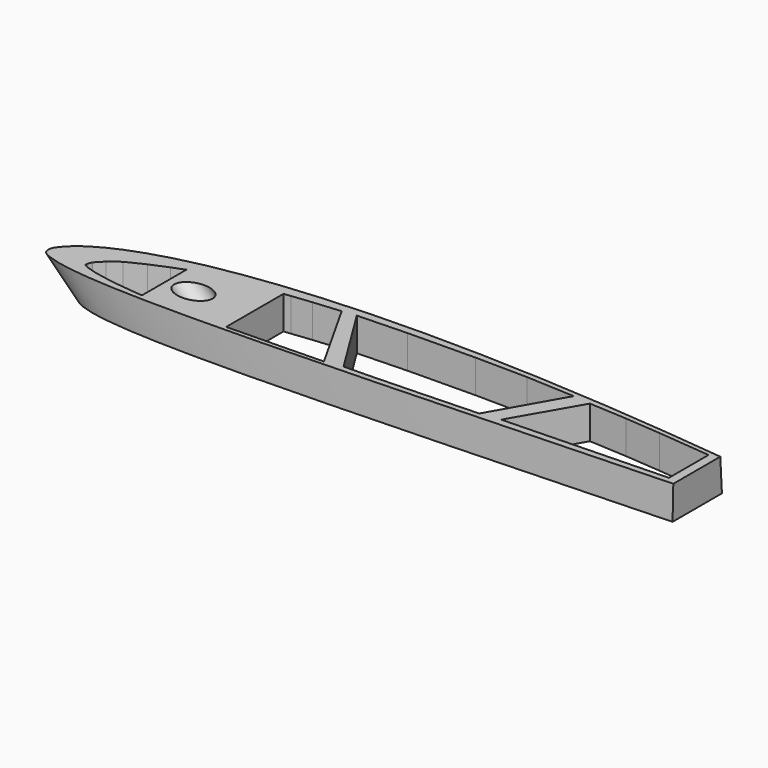
from build123d import *

# Parameters (mm, degrees)
SKETCH014_R     = 4.1
POCKET004_DEPTH = 1000
SKETCH028_W     = 1019.102966
SKETCH028_H     = 334.052749
POCKET014_DEPTH = 400
SKETCH029_W     = 596.497193
SKETCH029_H     = 131.569401
POCKET015_DEPTH = 190
POCKET021_DEPTH = 15
POCKET022_DEPTH = 15


with BuildPart() as part:
    # Sketch013 → AdditiveLoft004 section 0
    with BuildSketch(Plane.XY):
        with BuildLine():
            add(Edge.make_bspline(
                [(442, 0), (441.516482, 0.05985), (439.608661, 0.304392), (435.397729, 0.910974), (428.574856, 2.050787), (419.357172, 3.70148), (407.988015, 5.842425), (394.698211, 8.361511), (379.693029, 11.119858), (363.162801, 13.997331), (345.26298, 16.850624), (326.154422, 19.592319), (306.024603, 22.224467), (285.087437, 24.693135), (263.574681, 26.954707), (241.720258, 28.956147), (219.751231, 30.630726), (197.897907, 31.93252), (176.376671, 32.821617), (155.396014, 33.244603), (135.15065, 33.188213), (115.824376, 32.629564), (97.587476, 31.56887), (80.596225, 30.005784), (64.993081, 27.968424), (50.899514, 25.480303), (38.413049, 22.576942), (27.612464, 19.308312), (18.537399, 15.757674), (11.25959, 12.025676), (5.681209, 8.285847), (2.085717, 4.609671), (-0.247471, 1.339778), (0.311945, -2.351632), (4.312806, -4.086549), (9.630029, -5.736613), (17.536136, -6.998137), (27.548729, -7.995899), (39.778624, -8.638792), (54.057759, -8.977652), (70.277468, -9.020418), (88.270446, -8.806011), (107.851364, -8.369968), (128.803322, -7.757266), (150.891088, -7.009708), (173.8572, -6.171241), (197.434439, -5.258382), (221.347851, -4.314599), (245.320032, -3.359505), (269.074332, -2.428661), (292.331841, -1.542801), (314.820615, -0.740997), (336.263952, -0.054134), (356.390635, 0.471415), (374.915352, 0.819632), (391.616087, 0.995955), (406.124271, 0.998543), (418.5896, 0.838399), (427.79948, 0.669458), (436.147044, 0.281922), (438.208582, 0.287723), (442.482043, -0.059667), (442, 0)],
                knots=[0, 0, 0, 0, 1.461597, 5.77029, 12.762078, 22.212664, 33.86298, 47.468775, 62.792045, 79.632371, 97.804006, 117.167199, 137.543181, 158.706049, 180.412086, 202.435333, 224.541436, 246.507528, 268.108303, 289.156025, 309.457208, 328.838587, 347.151752, 364.251375, 380.016791, 394.345039, 407.169539, 418.451022, 428.175556, 436.348274, 442.987025, 448.138084, 451.892769, 454.490135, 458.080843, 463.78995, 471.700688, 481.805752, 494.068802, 508.3943, 524.664455, 542.72125, 562.377151, 583.420645, 605.603797, 628.678224, 652.364831, 676.388479, 700.474308, 724.338439, 747.706026, 770.297556, 791.846969, 812.070775, 830.691007, 847.452489, 862.104791, 874.428615, 884.234973, 891.369529, 895.711178, 897.168317, 897.168317, 897.168317, 897.168317], degree=3))
        make_face()
    # Sketch012 → AdditiveLoft004 section 1
    with BuildSketch(Plane(origin=(600, 0, -600), x_dir=(1, 0, 0), z_dir=(0, 0, 1))):
        with BuildLine():
            add(Edge.make_bspline(
                [(221, 0), (220.758241, 0.029925), (219.804331, 0.152196), (217.698864, 0.455487), (214.287428, 1.025393), (209.678586, 1.85074), (203.994008, 2.921212), (197.349106, 4.180756), (189.846514, 5.559929), (181.5814, 6.998665), (172.63149, 8.425312), (163.077211, 9.796159), (153.012301, 11.112233), (142.543719, 12.346568), (131.78734, 13.477353), (120.860129, 14.478073), (109.875616, 15.315363), (98.948954, 15.96626), (88.188336, 16.410808), (77.698007, 16.622301), (67.575325, 16.594107), (57.912188, 16.314782), (48.793738, 15.784435), (40.298113, 15.002892), (32.49654, 13.984212), (25.449757, 12.740151), (19.206525, 11.288471), (13.806232, 9.654156), (9.2687, 7.878837), (5.629795, 6.012838), (2.840604, 4.142924), (1.042858, 2.304836), (-0.123736, 0.669889), (0.155972, -1.175816), (2.156403, -2.043274), (4.815015, -2.868307), (8.768068, -3.499068), (13.774365, -3.997949), (19.889312, -4.319396), (27.028879, -4.488826), (35.138734, -4.510209), (44.135223, -4.403006), (53.925682, -4.184984), (64.401661, -3.878633), (75.445544, -3.504854), (86.9286, -3.08562), (98.71722, -2.629191), (110.673925, -2.157299), (122.660016, -1.679753), (134.537166, -1.21433), (146.165921, -0.771401), (157.410308, -0.370498), (168.131976, -0.027067), (178.195317, 0.235708), (187.457676, 0.409816), (195.808043, 0.497978), (203.062136, 0.499271), (209.2948, 0.4192), (213.89974, 0.334729), (218.073522, 0.140961), (219.104291, 0.143861), (221.241022, -0.029834), (221, 0)],
                knots=[0, 0, 0, 0, 0.730799, 2.885145, 6.381039, 11.106332, 16.93149, 23.734387, 31.396023, 39.816186, 48.902003, 58.583599, 68.77159, 79.353025, 90.206043, 101.217667, 112.270718, 123.253764, 134.054152, 144.578012, 154.728604, 164.419294, 173.575876, 182.125688, 190.008395, 197.172519, 203.58477, 209.225511, 214.087778, 218.174137, 221.493513, 224.069042, 225.946384, 227.245067, 229.040421, 231.894975, 235.850344, 240.902876, 247.034401, 254.19715, 262.332227, 271.360625, 281.188575, 291.710323, 302.801898, 314.339112, 326.182416, 338.19424, 350.237154, 362.16922, 373.853013, 385.148778, 395.923484, 406.035388, 415.345504, 423.726244, 431.052396, 437.214307, 442.117487, 445.684765, 447.855589, 448.584159, 448.584159, 448.584159, 448.584159], degree=3))
        make_face()
    loft()

    # Sketch014 (on DatumPlane) → Pocket004 (cut)
    with BuildSketch(Plane(origin=(0, 0, 0), x_dir=(0.707107, 0, 0.707107), z_dir=(-0.707107, 0, 0.707107))):
        with Locations((28.334262, 4.752984)):
            Circle(SKETCH014_R)
    extrude(amount=-POCKET004_DEPTH, mode=Mode.SUBTRACT)

    # Sketch028 (on Face1 of Pocket004) → Pocket014 (cut)
    with BuildSketch(Plane.XY):
        with Locations((344.286041, 49.011436)):
            Rectangle(SKETCH028_W, SKETCH028_H)
    extrude(amount=-POCKET014_DEPTH, mode=Mode.SUBTRACT)

    # Sketch029 (on Face3 of Pocket014) → Pocket015 (cut)
    with BuildSketch(Plane(origin=(0, 0, -600), x_dir=(1, 0, 0), z_dir=(0, 0, -1))):
        with Locations((614.230041, -4.876761)):
            Rectangle(SKETCH029_W, SKETCH029_H)
    extrude(amount=-POCKET015_DEPTH, mode=Mode.SUBTRACT)

    # Sketch038 (on Face2 of Pocket015) → Pocket021 (cut)
    with BuildSketch(Plane(origin=(0, 0, -410), x_dir=(1, 0, 0), z_dir=(0, 0, -1))):
        Polygon((694.6, 8.831614), (589.6, 8.831614), (589.6, -59.50228), (694.204712, -59.50228), (702.610046, -59.50228), (702.610046, 8.831614), align=None)
    extrude(amount=-POCKET021_DEPTH, mode=Mode.SUBTRACT)

    # Sketch039 (on Face4 of Pocket021) → Pocket022 (cut)
    with BuildSketch(Plane(origin=(0, 0, -410), x_dir=(1, 0, 0), z_dir=(0, 0, -1))):
        Polygon((586.897766, -0.494744), (586.897766, -15.427695), (570.918884, -16.938423), (560.053284, -17.809994), (548.722839, -18.449148), (537.508606, 1.015987), align=None)
        Polygon((543.354126, -19.025715), (531.526245, 1.785581), (514.46582, 2.423355), (500.020233, 2.901685), (491.613159, 3.06718), (477.795013, -19.189817), (492.706665, -19.687267), (513.051819, -19.921904), (528.638428, -19.739145), align=None)
        Polygon((486.380554, 3.934931), (473.616302, -18.715651), (465.475983, -17.97562), (459.516785, -17.31349), (457.388275, -17.061853), (457.388275, 4.554826), (464.598816, 4.383821), (472.48642, 4.255566), align=None)
        Polygon((431.846741, 4.348485), (431.846741, -12.357469), (428.202667, -10.989782), (423.036713, -8.821354), (417.679413, -6.238372), (414.458679, -3.782947), (412.258362, -1.518852), (411.716248, -0.211416), (411.748138, 0.5858), (412.768555, 1.191684), (416.053101, 2.180232), (422.17572, 3.328223), (430.020325, 4.221105), align=None)
    extrude(amount=-POCKET022_DEPTH, mode=Mode.SUBTRACT)


solid = part.part
